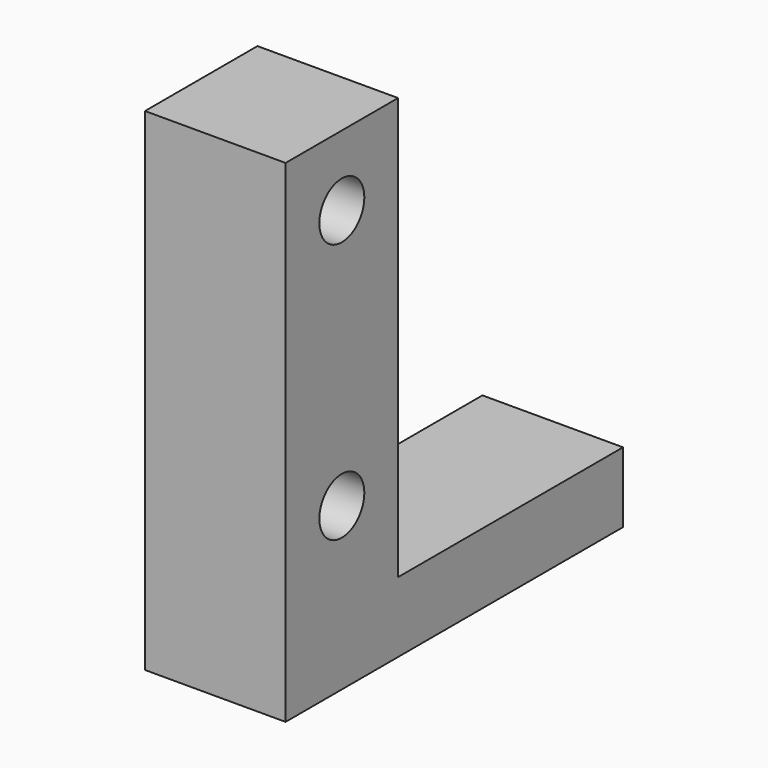
from build123d import *

# Parameters (mm, degrees)
PAD_DEPTH    = 20
SKETCH001_R  = 4
POCKET_DEPTH = 20


with BuildPart() as part:
    # Sketch → Pad (new body)
    with BuildSketch(Plane.YZ):
        Polygon((-10, 35), (-10, -35), (50, -35), (50, -25), (10, -25), (10, 35), align=None)
    extrude(amount=PAD_DEPTH)

    # Sketch001 → Pocket (cut)
    with BuildSketch(Plane.YZ.offset(20)):
        with Locations((0, 25)):
            Circle(SKETCH001_R)
        with Locations((0, -12)):
            Circle(SKETCH001_R)
    extrude(amount=-POCKET_DEPTH, mode=Mode.SUBTRACT)


solid = part.part
